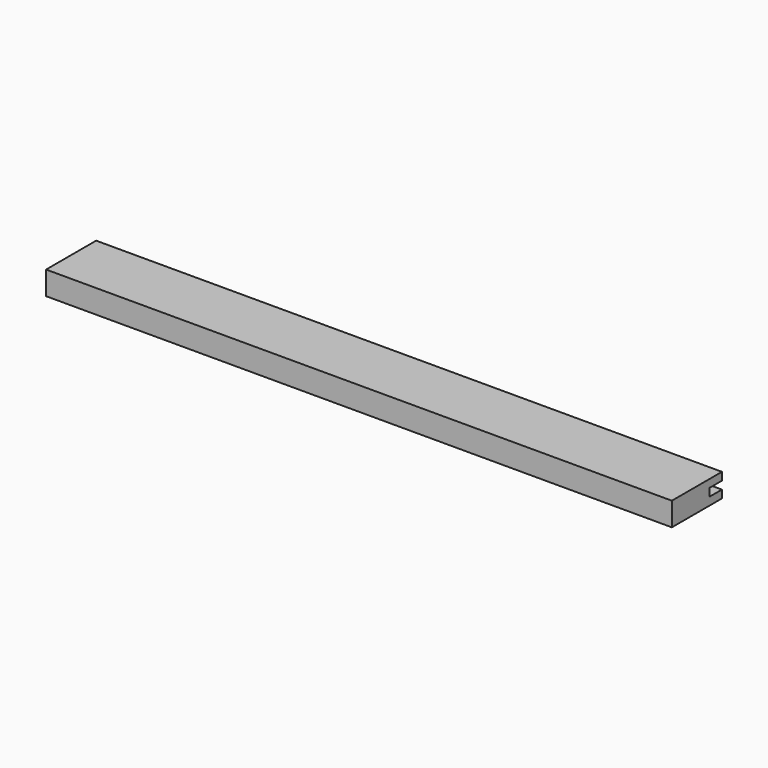
from build123d import *

# Parameters (mm, degrees)
F0_W     = 508
F0_H     = 19.05
F1_DEPTH = 50.8
F2_W     = 508
F2_H     = 6.35
F3_DEPTH = 12.7


with BuildPart() as f1:
    # F0 (on Front) → F1 (new body)
    with BuildSketch(Plane.XZ):
        Rectangle(F0_W, F0_H)
    extrude(amount=F1_DEPTH)

    # F2 (on face) → F3 (cut)
    with BuildSketch(Plane(origin=(0, 0, 0), x_dir=(-1, 0, 0), z_dir=(0, 1, 0))):
        Rectangle(F2_W, F2_H)
    extrude(amount=-F3_DEPTH, mode=Mode.SUBTRACT)


solid = f1.part
